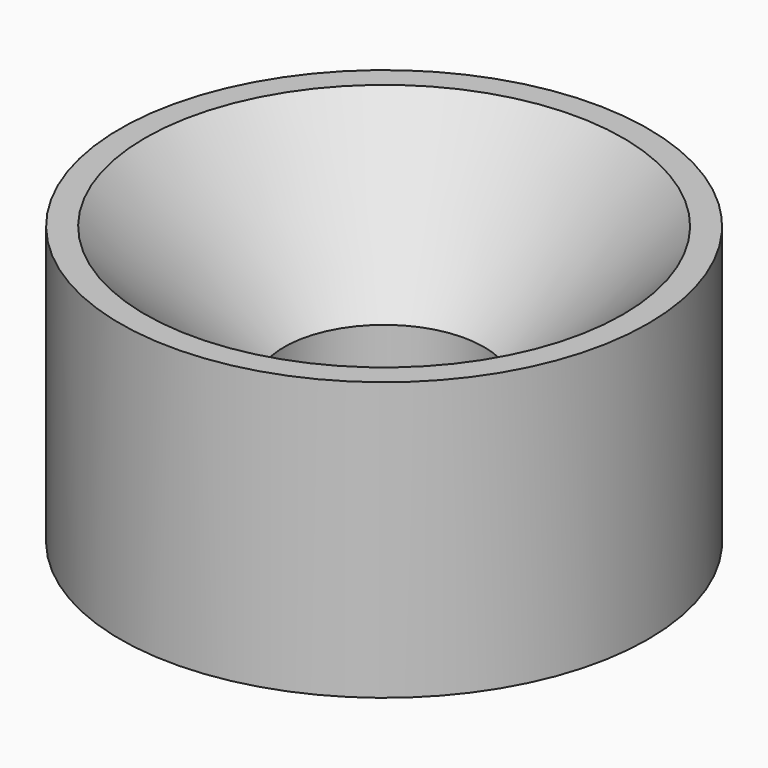
from build123d import *

# Parameters (mm, degrees)
SKETCH_R     = 4.75
SKETCH_R_2   = 1.8
PAD_DEPTH    = 5
CHAMFER_SIZE = 2.5


with BuildPart() as part:
    # Sketch → Pad (new body)
    with BuildSketch(Plane.XY):
        Circle(SKETCH_R)
        Circle(SKETCH_R_2, mode=Mode.SUBTRACT)
    extrude(amount=PAD_DEPTH)

    # Chamfer
    chamfer_edges = [part.edges().sort_by_distance(p)[0] for p in [
        (-1.8, 0, 5),
    ]]
    chamfer(chamfer_edges, length=CHAMFER_SIZE)


solid = part.part
